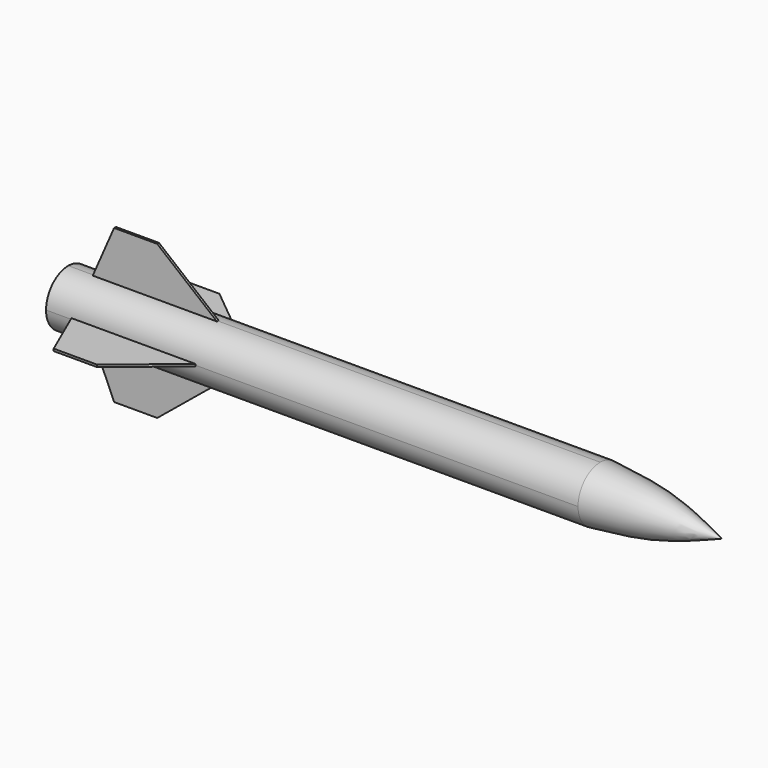
from build123d import *

# Parameters (mm, degrees)
F3_DEPTH = 1.27
F4_COUNT = 4
F6_D     = 50.8
F6_DEPTH = 12.7
F6_TIP   = 15.2618597233


with BuildPart() as f1:
    # F0 (on Front) → F1 (revolve)
    with BuildSketch(Plane.XZ):
        with BuildLine():
            Line((304.8, 31.75), (304.8, 0))
            Line((304.8, 0), (444.2785084248, 0))
            add(Edge.make_bspline(
                [(304.8, 31.75), (329.1421490587, 29.5054806716), (377.5121094621, 25.0454261884), (422.119671216, 8.3122278624), (444.2785084248, 0)],
                knots=[0, 0, 0, 0, 0.5032493071, 1, 1, 1, 1], degree=3))
        make_face()
    revolve(axis=Axis((374.5392542124, 0, 0), (-1, 0, 0)))

    # F0 (on Front) → F2 (revolve)
    with BuildSketch(Plane.XZ):
        Polygon((-275.7061719894, 31.75), (-304.8, 31.75), (-304.8, 0), (304.8, 0), (304.8, 31.75), (-133.4068477154, 31.75), align=None)
    revolve(axis=Axis((0, 0, 0), (1, 0, 0)))

    # F0 (on Front) → F3 (join, symmetric)
    with BuildSketch(Plane.XZ):
        Polygon((-251.240670681, 87.8152102232), (-275.7061719894, 31.75), (-133.4068477154, 31.75), (-201.8103897572, 87.8152102232), align=None)
    extrude(amount=F3_DEPTH, both=True)

    # F4: F1 ×4 about axis
    f4_axis = Axis((0, 0, 0), (1, 0, 0))


with BuildPart() as f1_1:
    add(f1.part)
    for i in range(1, F4_COUNT):
        add(f1.part.rotate(f4_axis, i * 360 / F4_COUNT))

    # F6
    with Locations(Plane(origin=(-304.8, 0, 0), x_dir=(0, -1, 0), z_dir=(-1, 0, 0))):
        with Locations((0, 0)):
            Hole(F6_D / 2, depth=F6_DEPTH)
            with Locations((0, 0, -(F6_DEPTH + F6_TIP / 2))):  # 118° drill point
                Cone(0, F6_D / 2, F6_TIP, mode=Mode.SUBTRACT)


solid = f1_1.part
